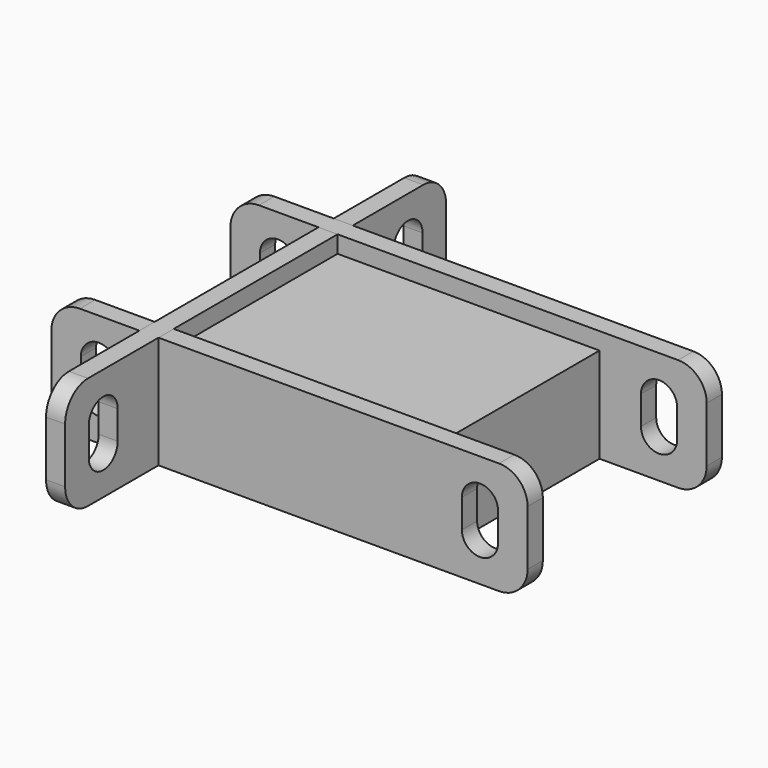
from build123d import *

# Parameters (mm, degrees)
BOX_W                   = 27.5
BOX_H                   = 21.5
BOX_DEPTH               = 10
BOX008_W                = 3.8
BOX008_H                = 3
BOX008_DEPTH            = 10
CYLINDER002_R           = 1.9
CYLINDER002_DEPTH       = 10
CYLINDER004_R           = 1.9
CYLINDER004_DEPTH       = 10
ARRAY003_X_COUNT        = 2
ARRAY003_X_PITCH        = 40
BOX006_W                = 50
BOX006_H                = 11.8
BOX006_DEPTH            = 2
FILLET003_R             = 3
BODY_PLACEMENT_ANGLE    = 90
CYLINDER001_R           = 1.9
CYLINDER001_DEPTH       = 10
BOX007_W                = 3
BOX007_H                = 3.8
BOX007_DEPTH            = 10
CYLINDER003_R           = 1.9
CYLINDER003_DEPTH       = 10
ARRAY002_Y_COUNT        = 2
ARRAY002_Y_PITCH        = 40
BOX005_W                = 11.8
BOX005_H                = 50
BOX005_DEPTH            = 2
FILLET002_R             = 3
BODY001_PLACEMENT_ANGLE = 90
BODY002_PLACEMENT_ANGLE = 90


with BuildPart() as test_cube:
    # Box → Box (new body)
    with BuildSketch(Plane.XY):
        with Locations((13.75, 10.75)):
            Rectangle(BOX_W, BOX_H)
    extrude(amount=BOX_DEPTH)


with BuildPart() as obj1:
    # Box008 → Box008 (new body)
    with BuildSketch(Plane(origin=(-1.9, 0, 0), x_dir=(1, 0, 0), z_dir=(0, 0, 1))):
        with Locations((1.9, 1.5)):
            Rectangle(BOX008_W, BOX008_H)
    extrude(amount=BOX008_DEPTH)


with BuildPart() as attach_hole001:
    # Cylinder002 → Cylinder002 (new body)
    with BuildSketch(Plane.XY):
        Circle(CYLINDER002_R)
    extrude(amount=CYLINDER002_DEPTH)


with BuildPart() as attach_hole_array001:
    # Cylinder004 → Cylinder004 (new body)
    with BuildSketch(Plane(origin=(0, 3, 0), x_dir=(1, 0, 0), z_dir=(0, 0, 1))):
        Circle(CYLINDER004_R)
    extrude(amount=CYLINDER004_DEPTH)

    # Fusion001: union obj1, attach hole001
    add(obj1.part)
    add(attach_hole001.part)


with BuildPart() as attach_hole_array001_1:
    # Fusion001 placement: moved
    add(attach_hole_array001.part.moved(Location((5, 4.4, 0))))

    # Array003 X: attach hole array001 ×2


with BuildPart() as attach_hole_array001_2:
    add(attach_hole_array001_1.part)
    with Locations(*[(i * ARRAY003_X_PITCH, 0, 0) for i in range(1, ARRAY003_X_COUNT)]):
        add(attach_hole_array001_1.part)


with BuildPart() as attach_plane_x_dir:
    # Box006 → Box006 (new body)
    with BuildSketch(Plane.XY):
        with Locations((25, 5.9)):
            Rectangle(BOX006_W, BOX006_H)
    extrude(amount=BOX006_DEPTH)

    # Fillet003
    fillet003_edges = [attach_plane_x_dir.edges().sort_by_distance(p)[0] for p in [
        (0, 0, 1),
        (0, 11.8, 1),
        (50, 0, 1),
        (50, 11.8, 1),
    ]]
    fillet(fillet003_edges, radius=FILLET003_R)

    # Cut003: cut attach hole array001
    add(attach_hole_array001_2.part, mode=Mode.SUBTRACT)


with BuildPart() as attach_plane_x_dir_1:
    # Cut003 placement: moved
    add(attach_plane_x_dir.part.moved(Location((-11.25, 4.85, 0))))


with BuildPart() as attach_plane_x_rotated_dir:
    # Body base: copy of attach plane x dir
    add(attach_plane_x_dir_1.part)


with BuildPart() as attach_plane_x_rotated_dir_1:
    # Clone placement: moved
    add(attach_plane_x_rotated_dir.part.moved(Location((11.25, -4.85, 0))))


with BuildPart() as attach_plane_x_rotated_dir_2:
    # Body placement: moved
    add(attach_plane_x_rotated_dir_1.part.moved(Location((-11.25, 0, 0))).rotate(Axis((-11.25, 0, 0), (1, 0, 0)), BODY_PLACEMENT_ANGLE))


with BuildPart() as attach_hole:
    # Cylinder001 → Cylinder001 (new body)
    with BuildSketch(Plane.XY):
        Circle(CYLINDER001_R)
    extrude(amount=CYLINDER001_DEPTH)


with BuildPart() as obj2:
    # Box007 → Box007 (new body)
    with BuildSketch(Plane(origin=(0, -1.9, 0), x_dir=(1, 0, 0), z_dir=(0, 0, 1))):
        with Locations((1.5, 1.9)):
            Rectangle(BOX007_W, BOX007_H)
    extrude(amount=BOX007_DEPTH)


with BuildPart() as attach_hole_array:
    # Cylinder003 → Cylinder003 (new body)
    with BuildSketch(Plane(origin=(3, 0, 0), x_dir=(1, 0, 0), z_dir=(0, 0, 1))):
        Circle(CYLINDER003_R)
    extrude(amount=CYLINDER003_DEPTH)

    # Fusion: union attach hole, obj2
    add(attach_hole.part)
    add(obj2.part)


with BuildPart() as attach_hole_array_1:
    # Fusion placement: moved
    add(attach_hole_array.part.moved(Location((4.4, 5, 0))))

    # Array002 Y: attach hole array ×2


with BuildPart() as attach_hole_array_2:
    add(attach_hole_array_1.part)
    with Locations(*[(0, i * ARRAY002_Y_PITCH, 0) for i in range(1, ARRAY002_Y_COUNT)]):
        add(attach_hole_array_1.part)


with BuildPart() as attach_plane_y_rotated_dir:
    # Box005 → Box005 (new body)
    with BuildSketch(Plane.XY):
        with Locations((5.9, 25)):
            Rectangle(BOX005_W, BOX005_H)
    extrude(amount=BOX005_DEPTH)

    # Fillet002
    fillet002_edges = [attach_plane_y_rotated_dir.edges().sort_by_distance(p)[0] for p in [
        (0, 0, 1),
        (0, 50, 1),
        (11.8, 0, 1),
        (11.8, 50, 1),
    ]]
    fillet(fillet002_edges, radius=FILLET002_R)

    # Cut002: cut attach hole array
    add(attach_hole_array_2.part, mode=Mode.SUBTRACT)


with BuildPart() as attach_plane_y_rotated_dir_1:
    # Cut002 placement: moved
    add(attach_plane_y_rotated_dir.part.moved(Location((7.85, -14.25, 0))))


with BuildPart() as attach_plane_y_rotated_dir_2:
    # Clone001 placement: moved
    add(attach_plane_y_rotated_dir_1.part.moved(Location((-7.85, 14.25, 0))))


with BuildPart() as attach_plane_y_rotated_dir_3:
    # Body001 placement: moved
    add(attach_plane_y_rotated_dir_2.part.moved(Location((0, -14.25, 0))).rotate(Axis((0, -14.25, 0), (0, -1, 0)), BODY001_PLACEMENT_ANGLE))


with BuildPart() as attach_plane_x_reverse_rotated_dir:
    # Body002 base: copy of attach plane x dir
    add(attach_plane_x_dir_1.part)


with BuildPart() as attach_plane_x_reverse_rotated_dir_1:
    # Clone002 placement: moved
    add(attach_plane_x_reverse_rotated_dir.part.moved(Location((11.25, -4.85, 0))))


with BuildPart() as attach_plane_x_reverse_rotated_dir_2:
    # Body002 placement: moved
    add(attach_plane_x_reverse_rotated_dir_1.part.moved(Location((-11.25, 23.5, 0))).rotate(Axis((-11.25, 23.5, 0), (1, 0, 0)), BODY002_PLACEMENT_ANGLE))


solid = Compound([test_cube.part, attach_plane_x_rotated_dir_2.part, attach_plane_y_rotated_dir_3.part, attach_plane_x_reverse_rotated_dir_2.part])
